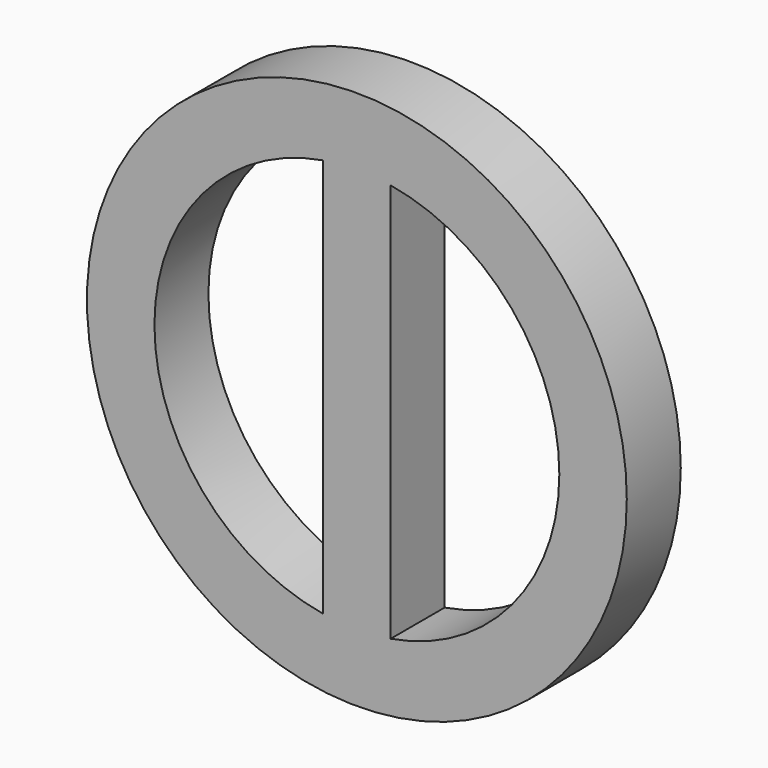
from build123d import *

# Parameters (mm, degrees)
F0_R     = 50.8
F1_DEPTH = 12.7


with BuildPart() as f1:
    # F0 (on Front) → F1 (new body)
    with BuildSketch(Plane.XZ):
        Circle(F0_R)
        with BuildLine():
            ThreePointArc((-6.35, -37.567107), (-38.1, 0), (-6.35, 37.567107))
            Line((-6.35, 37.567107), (-6.35, -37.567107))
        make_face(mode=Mode.SUBTRACT)
        with BuildLine():
            Line((6.35, -37.567107), (6.35, 37.567107))
            ThreePointArc((6.35, 37.567107), (38.1, 0), (6.35, -37.567107))
        make_face(mode=Mode.SUBTRACT)
    extrude(amount=F1_DEPTH)


solid = f1.part
